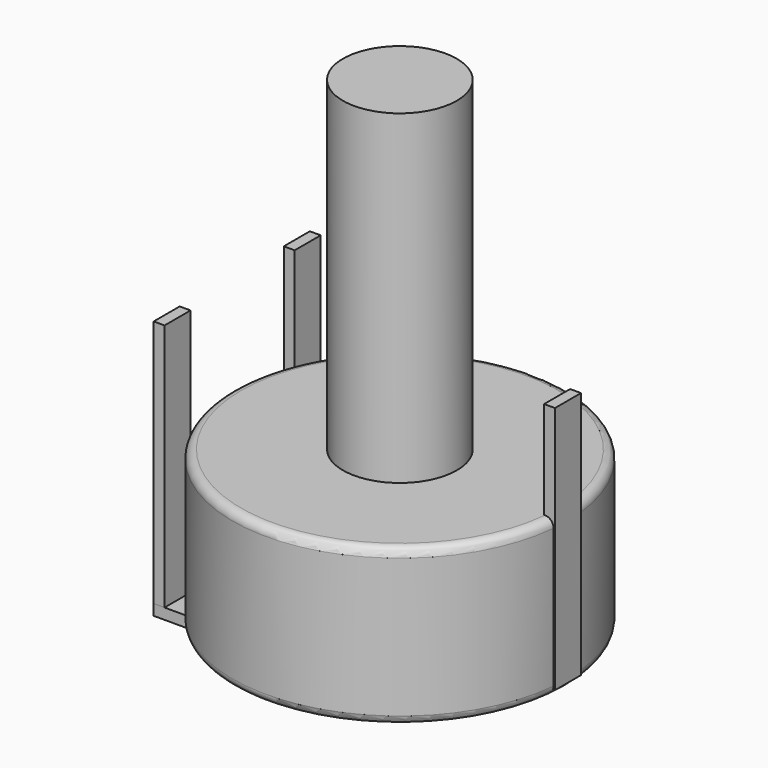
from build123d import *

# Parameters (mm, degrees)
SKETCH003_W       = 0.333334
SKETCH003_H       = 1
PAD002_DEPTH      = 1
PAD002_DEPTH_BACK = 6.633333
SKETCH004_R       = 1.75
SKETCH004_W       = 2.625
SKETCH004_H       = 0.7
PAD003_DEPTH      = 4.8
SKETCH_R          = 5.15
SKETCH_R_2        = 1.75
PAD_DEPTH         = 4.8
FILLET_R          = 0.265
SKETCH005_W       = 3.241667
SKETCH005_H       = 2
PAD004_DEPTH      = 0.333333
SKETCH006_R       = 1.75
PAD005_DEPTH      = 10


with BuildPart() as pad002:
    # Sketch003 → Pad002 (new body, two sides)
    with BuildSketch(Plane(origin=(0, 5, 0), x_dir=(1, 0, 0), z_dir=(0, 0, 1))) as pad002_sk:
        Rectangle(SKETCH003_W, SKETCH003_H)
        with Locations((10, -2.5)):
            Rectangle(SKETCH003_W, SKETCH003_H)
        with Locations((0, -5)):
            Rectangle(SKETCH003_W, SKETCH003_H)
    extrude(amount=PAD002_DEPTH)
    extrude(pad002_sk.sketch, amount=-PAD002_DEPTH_BACK)


with BuildPart() as pad003:
    # Sketch004 → Pad003 (new body)
    with BuildSketch(Plane(origin=(0, 5, -2), x_dir=(1, 0, 0), z_dir=(0, 0, 1))):
        with Locations((5, -2.5)):
            Circle(SKETCH004_R)
        with Locations((5, -2.5)):
            Rectangle(SKETCH004_W, SKETCH004_H, mode=Mode.SUBTRACT)
    extrude(amount=-PAD003_DEPTH)


with BuildPart() as fillet_body:
    # Sketch → Pad (new body)
    with BuildSketch(Plane(origin=(0, 5, -2), x_dir=(1, 0, 0), z_dir=(0, 0, 1))):
        with Locations((5, -2.5)):
            Circle(SKETCH_R)
        with Locations((5, -2.5)):
            Circle(SKETCH_R_2, mode=Mode.SUBTRACT)
    extrude(amount=-PAD_DEPTH)

    # Fillet
    fillet_edges = [fillet_body.edges().sort_by_distance(p)[0] for p in [
        (-0.15, 2.5, -2),
        (-0.15, 2.5, -6.8),
    ]]
    fillet(fillet_edges, radius=FILLET_R)


with BuildPart() as pad004:
    # Sketch005 → Pad004 (new body)
    with BuildSketch(Plane(origin=(0, 5, -6.966667), x_dir=(1, 0, 0), z_dir=(0, 0, 1))):
        with Locations((1.454166, -0.5)):
            Rectangle(SKETCH005_W, SKETCH005_H)
        with Locations((1.454166, -4.5)):
            Rectangle(SKETCH005_W, SKETCH005_H)
    extrude(amount=PAD004_DEPTH)


with BuildPart() as pad005:
    # Sketch006 → Pad005 (new body)
    with BuildSketch(Plane(origin=(0, 5, -2), x_dir=(1, 0, 0), z_dir=(0, 0, 1))):
        with Locations((5, -2.5)):
            Circle(SKETCH006_R)
    extrude(amount=PAD005_DEPTH)


solid = Compound([pad002.part, pad003.part, fillet_body.part, pad004.part, pad005.part])
